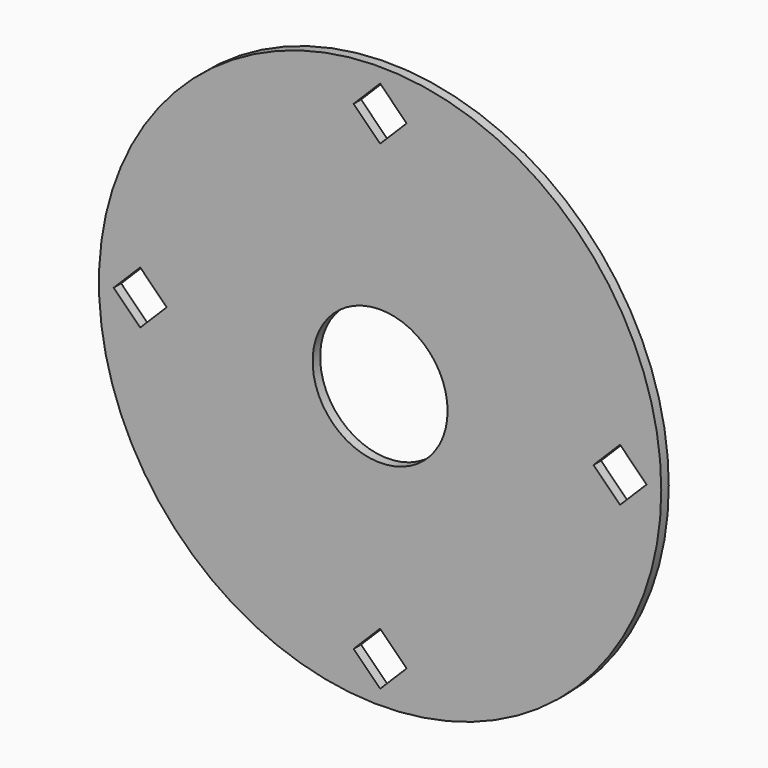
from build123d import *

# Parameters (mm, degrees)
F0_R     = 95.25
F2_DEPTH = 3.175
F1_R     = 22.86
F3_DEPTH = 25.4
F5_DEPTH = 25.4


with BuildPart() as f2:
    # F0 (on Front) → F2 (new body)
    with BuildSketch(Plane.XZ):
        Circle(F0_R)
    extrude(amount=F2_DEPTH)

    # F1 (on face) → F3 (cut)
    with BuildSketch(Plane.XZ):
        Circle(F1_R)
    extrude(amount=F3_DEPTH, mode=Mode.SUBTRACT)

    # F4 (on face) → F5 (cut)
    with BuildSketch(Plane.XZ.offset(3.175)):
        Polygon((-81.28, -8.980256), (-72.299744, 0), (-81.28, 8.980256), (-90.260256, 0), align=None)
        Polygon((0, -90.260256), (8.980256, -81.28), (0, -72.299744), (-8.980256, -81.28), align=None)
        Polygon((90.260256, 0), (81.28, 8.980256), (72.299744, 0), (81.28, -8.980256), align=None)
        Polygon((0, 90.260256), (-8.980256, 81.28), (0, 72.299744), (8.980256, 81.28), align=None)
    extrude(amount=-F5_DEPTH, mode=Mode.SUBTRACT)


solid = f2.part
